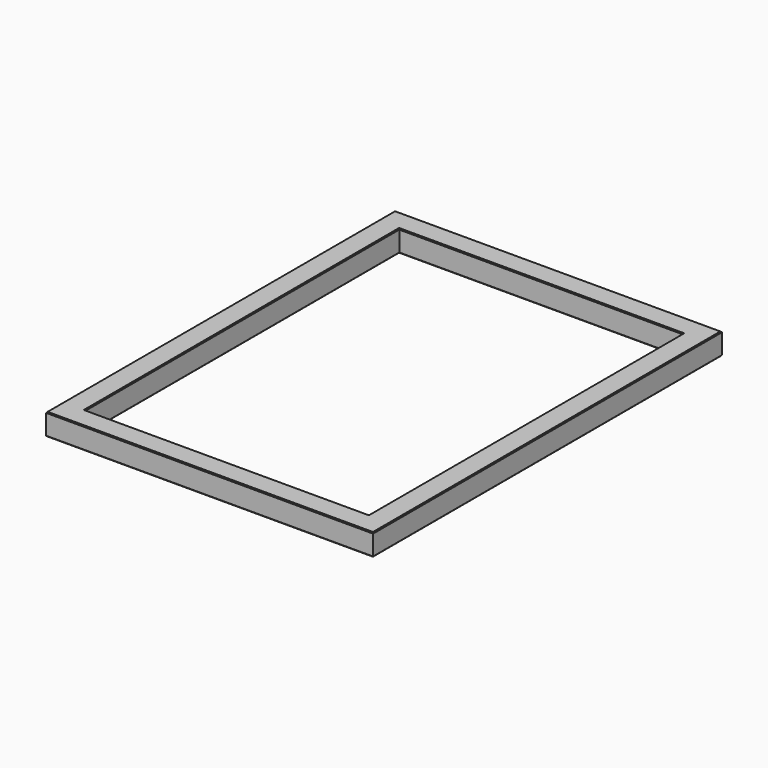
from build123d import *

# Parameters (mm, degrees)
F0_W     = 150
F0_H     = 200
F0_W_2   = 130
F0_H_2   = 180
F1_DEPTH = 10
F2_SIZE  = 0.4


with BuildPart() as f1:
    # F0 (on Top) → F1 (new body)
    with BuildSketch(Plane.XY):
        Rectangle(F0_W, F0_H)
        Rectangle(F0_W_2, F0_H_2, mode=Mode.SUBTRACT)
    extrude(amount=F1_DEPTH)

    # F2
    f2_edges = [f1.edges().sort_by_distance(p)[0] for p in [
        (75, 0, 10),
        (0, 100, 10),
        (-75, 0, 10),
        (0, -100, 10),
        (0, 90, 10),
        (65, 0, 10),
        (0, -90, 10),
        (-65, 0, 10),
        (75, 0, 0),
        (0, 100, 0),
        (-75, 0, 0),
        (0, -100, 0),
        (0, 90, 0),
        (65, 0, 0),
        (0, -90, 0),
        (-65, 0, 0),
    ]]
    chamfer(f2_edges, length=F2_SIZE)


solid = f1.part
